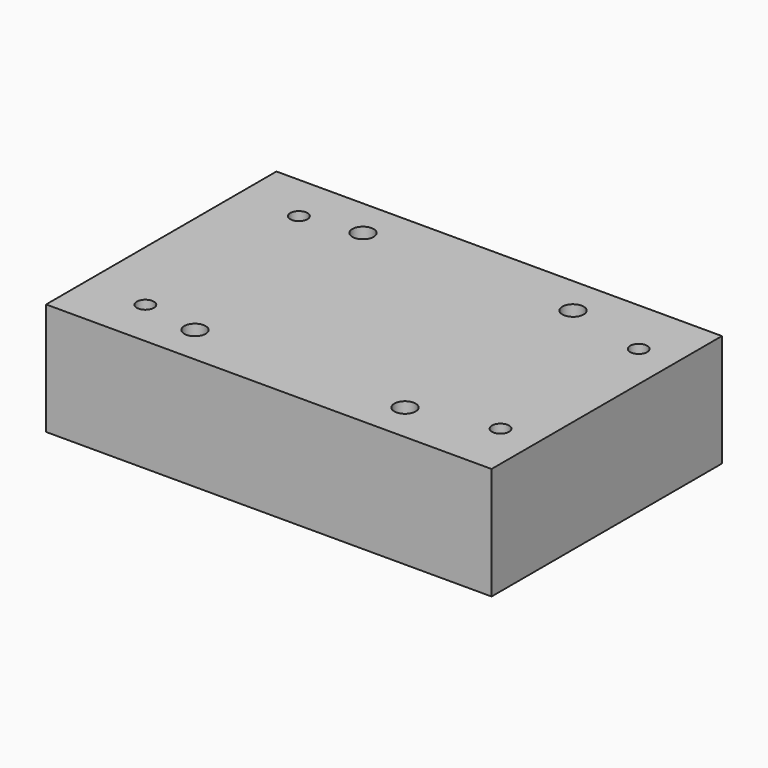
from build123d import *

# Parameters (mm, degrees)
F0_W     = 104.35
F0_H     = 67.45
F1_DEPTH = 26.3
F2_R     = 2.5
F3_DEPTH = 26.301
F4_R     = 2
F5_DEPTH = 70.6


with BuildPart() as f1:
    # F0 (on Top) → F1 (new body)
    with BuildSketch(Plane.XY):
        Rectangle(F0_W, F0_H)
    extrude(amount=F1_DEPTH)

    # F2 (on Top) → F3 (cut, through all)
    with BuildSketch(Plane.XY):
        with Locations((-24.6, 24.6)):
            Circle(F2_R)
        with Locations((-24.6, -24.6)):
            Circle(F2_R)
        with Locations((24.6, -24.6)):
            Circle(F2_R)
        with Locations((24.6, 24.6)):
            Circle(F2_R)
    extrude(amount=F3_DEPTH, mode=Mode.SUBTRACT)

    # F4 (on Top) → F5 (cut)
    with BuildSketch(Plane.XY):
        with Locations((43.475, 20.225)):
            Circle(F4_R)
        with Locations((43.475, -20.225)):
            Circle(F4_R)
        with Locations((-37.925, 22.475)):
            Circle(F4_R)
        with Locations((-37.925, -22.475)):
            Circle(F4_R)
    extrude(amount=F5_DEPTH, mode=Mode.SUBTRACT)


solid = f1.part
